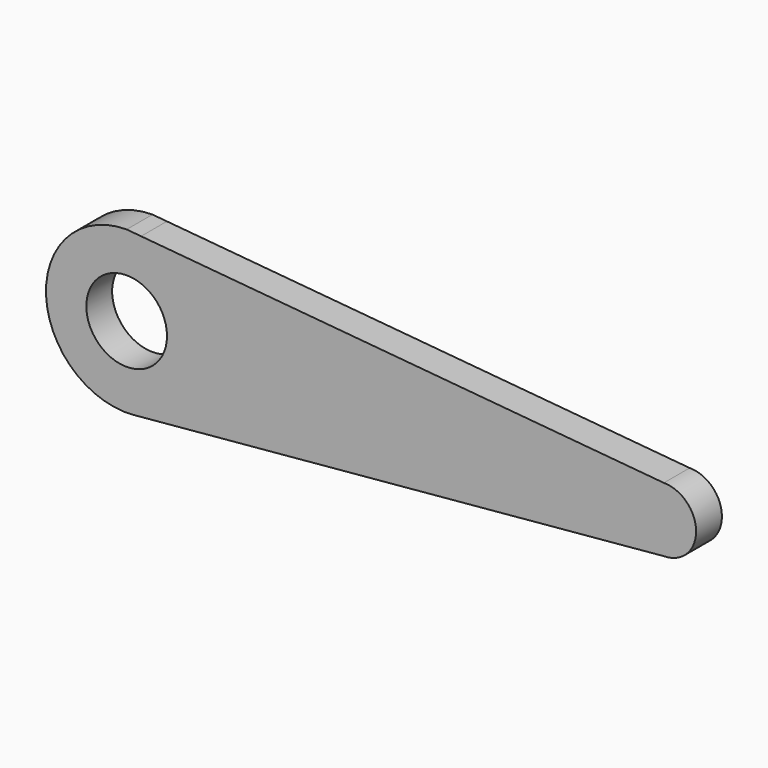
from build123d import *

# Parameters (mm, degrees)
F0_R     = 1.5875
F1_DEPTH = 0.635


with BuildPart() as f1:
    # F0 (on Front) → F1 (new body, symmetric)
    with BuildSketch(Plane.XZ):
        with BuildLine():
            ThreePointArc((0.567515, 3.123868), (2.437467, 2.034547), (3.175, 0))
            ThreePointArc((3.175, 0), (2.344285, -2.14125), (0.286841, -3.162016))
            Line((0.286841, -3.162016), (21.143647, -1.27))
            ThreePointArc((21.143647, -1.27), (22.413647, 0), (21.143647, 1.27))
            Line((21.143647, 1.27), (0.567515, 3.123868))
        make_face()
        with BuildLine():
            ThreePointArc((0.286841, -3.162016), (2.344285, -2.14125), (3.175, 0))
            ThreePointArc((3.175, 0), (2.437467, 2.034547), (0.567515, 3.123868))
            Line((0.567515, 3.123868), (0, 3.175))
            ThreePointArc((0, 3.175), (-3.171752, -0.143567), (0.286841, -3.162016))
        make_face()
        Circle(F0_R, mode=Mode.SUBTRACT)
    extrude(amount=F1_DEPTH, both=True)


solid = f1.part
